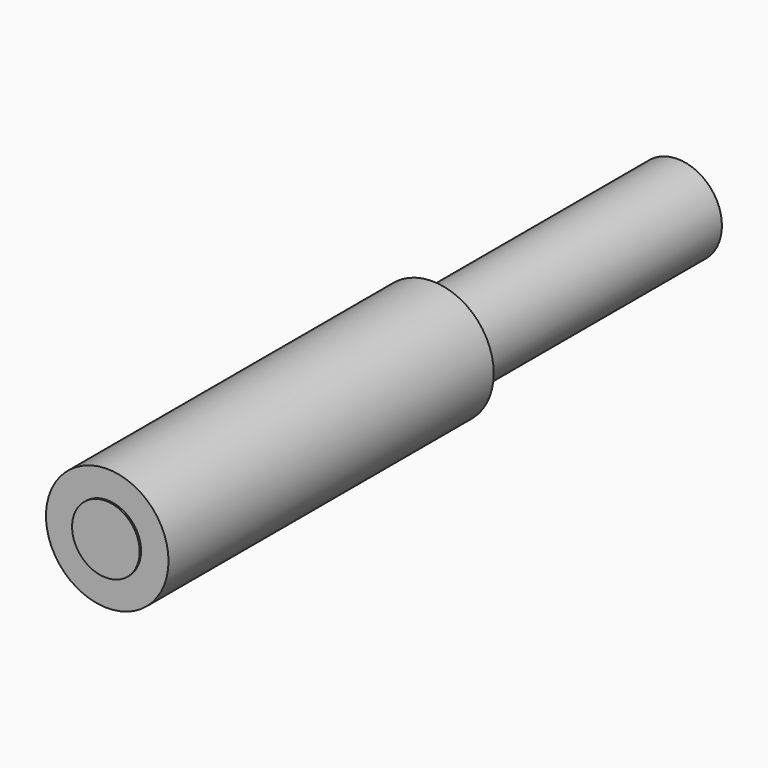
from build123d import *


with BuildPart() as f1:
    # F0 (on Top) → F1 (revolve)
    with BuildSketch(Plane.XY):
        Polygon((2.25, 0), (0, 0), (0, -50.5), (4, -50.5), (4, -50.3), (7.25, -50.3), (7.25, -2.2), (2.25, -2.2), align=None)
    revolve(axis=Axis((0, 17.907274, 0), (0, -1, 0)))


with BuildPart() as f3:
    # F2 (on Top) → F3 (revolve)
    with BuildSketch(Plane.XY):
        Polygon((1.9, 34.849632), (0, 34.849632), (0, -9.650368), (3, -9.650368), (3, -9.499413), (5.25, -9.499413), (5.25, 34.049632), (1.9, 34.049632), align=None)
    revolve(axis=Axis((0, 12.599632, 0), (0, 1, 0)))


solid = Compound([f1.part, f3.part])
